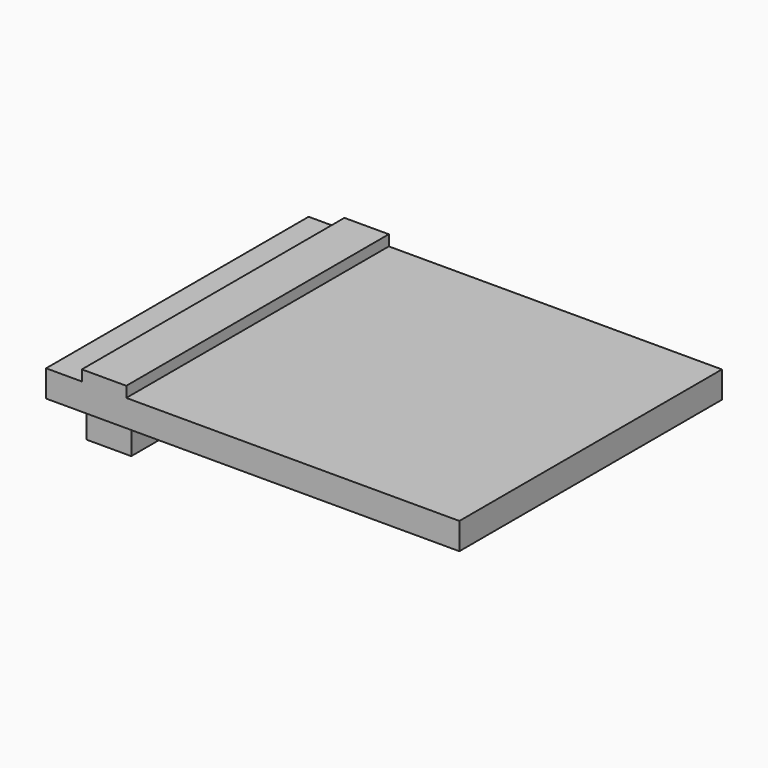
from build123d import *

# Parameters (mm, degrees)
F0_W       = 98.3872264624
F0_H       = 78.1223997474
F1_DEPTH   = 2.54
F2_W       = 10.5729550123
F2_H       = 78.1223997474
F1_FACE1_W = 98.3872264624
F1_FACE1_H = 78.1223997474
F3_DEPTH   = 6.35
F5_W       = 10.6261968613
F5_H       = 76.7848268151
F6_DEPTH   = 6.35


with BuildPart() as f1:
    # F0 (on Top) → F1 (new body)
    with BuildSketch(Plane.XY):
        with Locations((2.7900859714, 3.524325788)):
            Rectangle(F0_W, F0_H)
    extrude(amount=F1_DEPTH)

    # F2 (on face) + F1_face1 (on face) → F3 (join)
    with BuildSketch(Plane.XY.offset(2.54)):
        with Locations((-32.5999483466, 3.524325788)):
            Rectangle(F2_W, F2_H)
        with Locations((-32.5999483466, 3.524325788)):
            Rectangle(F2_W, F2_H)
    with BuildSketch(Plane(origin=(2.7900859714, 3.524325788, 0), x_dir=(1, 0, 0), z_dir=(0, 0, -1))):
        Rectangle(F1_FACE1_W, F1_FACE1_H)
    extrude(amount=F3_DEPTH, dir=(0, 0, 1))

    # F5 (on face) → F6 (join)
    with BuildSketch(Plane(origin=(0, 0, 0), x_dir=(1, 0, 0), z_dir=(0, 0, -1))):
        with Locations((-32.4897877872, -4.1658058763)):
            Rectangle(F5_W, F5_H)
    extrude(amount=F6_DEPTH)


solid = f1.part
